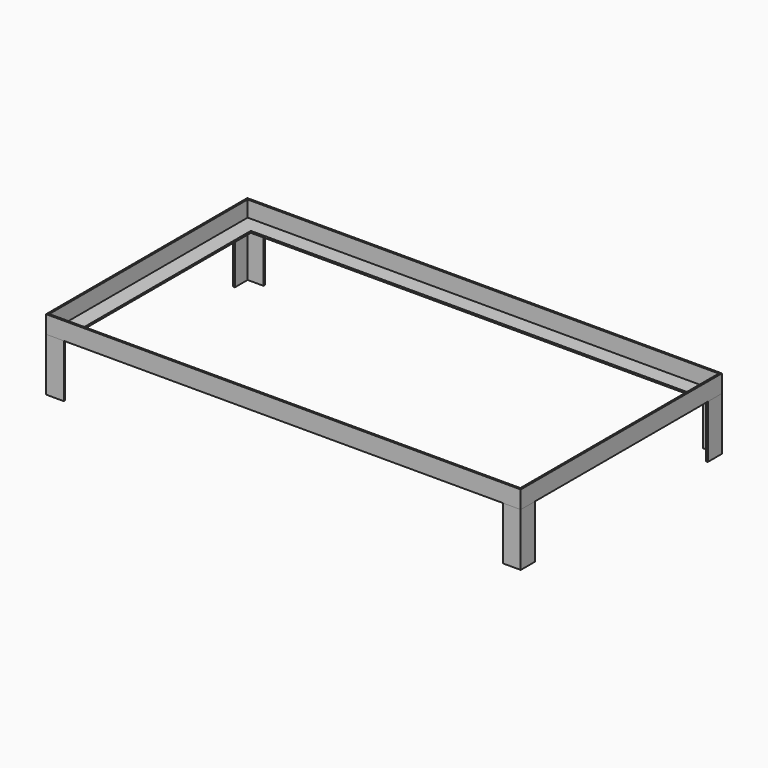
from build123d import *

# Parameters (mm, degrees)
F1_DEPTH = 670
F3_DEPTH = 710
F5_DEPTH = 1340
F7_DEPTH = 710
F9_DEPTH = 150


with BuildPart() as f1:
    # F0 (on Right) → F1 (new body, symmetric)
    with BuildSketch(Plane.YZ):
        Polygon((-5, 0), (0, 0), (0, 5), (0, 50), (-5, 50), (-5, 5), (-50, 5), (-50, 0), align=None)
    extrude(amount=F1_DEPTH, both=True)

    # F2 (on face) → F3 (join)
    with BuildSketch(Plane.XZ.offset(710)):
        Polygon((620, 0), (670, 0), (670, 50), (665, 50), (665, 5), (620, 5), align=None)
    extrude(amount=-F3_DEPTH)

    # F4 (on face) → F5 (join)
    with BuildSketch(Plane(origin=(-670, 0, 0), x_dir=(0, -1, 0), z_dir=(-1, 0, 0))):
        Polygon((710, 0), (710, 50), (705, 50), (705, 5), (660, 5), (660, 0), align=None)
    extrude(amount=-F5_DEPTH)

    # F6 (on face) → F7 (join)
    with BuildSketch(Plane(origin=(0, 0, 0), x_dir=(-1, 0, 0), z_dir=(0, 1, 0))):
        Polygon((670, 0), (670, 50), (665, 50), (665, 5), (620, 5), (620, 0), align=None)
    extrude(amount=-F7_DEPTH)


with BuildPart() as f9:
    # F8 (on face) → F9 (new body)
    with BuildSketch(Plane(origin=(0, 0, 0), x_dir=(1, 0, 0), z_dir=(0, 0, -1))):
        Polygon((-670, 50), (-670, 0), (-620, 0), (-620, 5), (-665, 5), (-665, 50), align=None)
        Polygon((-620, 710), (-670, 710), (-670, 660), (-665, 660), (-665, 705), (-620, 705), align=None)
        Polygon((620, 5), (620, 0), (670, 0), (670, 50), (665, 50), (665, 5), align=None)
        Polygon((620, 710), (620, 705), (665, 705), (665, 660), (670, 660), (670, 710), align=None)
    extrude(amount=F9_DEPTH)


solid = Compound([f1.part, f9.part])
